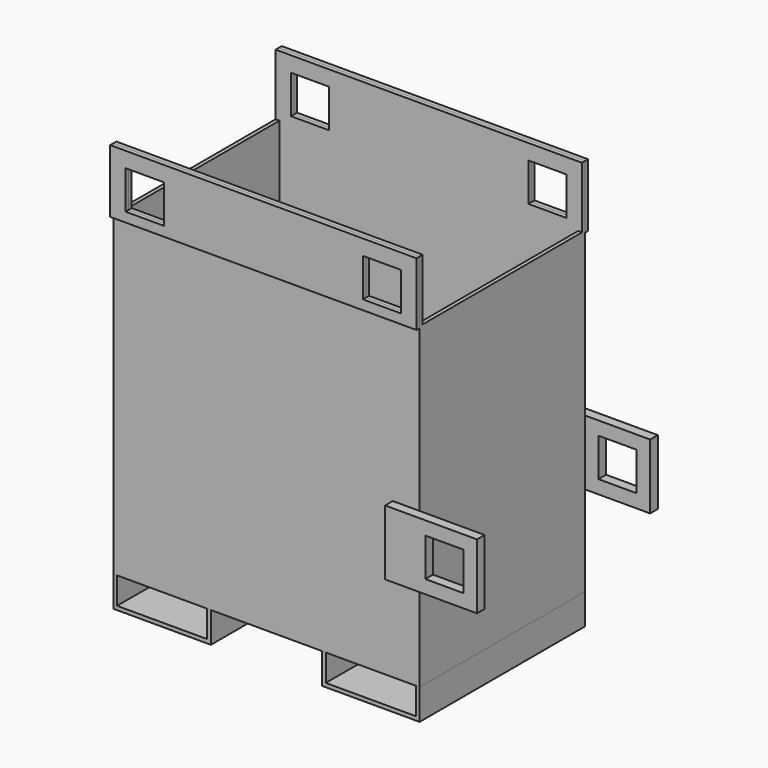
from build123d import *

# Parameters (mm, degrees)
F0_W      = 800
F0_H      = 10
F1_DEPTH  = 540
F2_W      = 800
F2_H      = 540
F2_W_2    = 780
F2_H_2    = 520
F3_DEPTH  = 820
F5_DEPTH  = 160
F6_W      = 100
F6_H      = 100
F7_DEPTH  = 918
F8_W      = 800
F8_H      = 165
F8_W_2    = 100
F8_H_2    = 100
F9_DEPTH  = 10
F10_W     = 800
F10_H     = 165
F10_W_2   = 100
F10_H_2   = 100
F11_DEPTH = 10
F13_DEPTH = 540
F14_W     = 70
F14_H     = 170
F15_DEPTH = 25
F16_W     = 70
F16_H     = 170
F16_W_2   = 170
F16_W_3   = 100
F16_H_2   = 100
F17_DEPTH = 25


with BuildPart() as f1:
    # F0 (on Front) → F1 (new body)
    with BuildSketch(Plane.XZ):
        with Locations((-49.139143, -492.230605)):
            Rectangle(F0_W, F0_H)
    extrude(amount=F1_DEPTH)

    # F2 (on face) → F3 (join)
    with BuildSketch(Plane.XY.offset(-487.230605)):
        with Locations((-49.139143, -270)):
            Rectangle(F2_W, F2_H)
        with Locations((-49.139143, -270)):
            Rectangle(F2_W_2, F2_H_2, mode=Mode.SUBTRACT)
    extrude(amount=F3_DEPTH)

    # F4 (on face) → F5 (join)
    with BuildSketch(Plane.XY.offset(332.769395)):
        Polygon((350.860857, 0), (-449.139143, 0), (-449.139143, -10), (-439.139143, -10), (340.860857, -10), (350.860857, -10), align=None)
        Polygon((-439.139143, -530), (-449.139143, -530), (-449.139143, -540), (350.860857, -540), (350.860857, -530), (340.860857, -530), align=None)
    extrude(amount=F5_DEPTH)

    # F6 (on face) → F7 (cut)
    with BuildSketch(Plane.XZ.offset(540)):
        with Locations((-359.139143, 402.769395)):
            Rectangle(F6_W, F6_H)
        with Locations((260.860857, 402.769395)):
            Rectangle(F6_W, F6_H)
    extrude(amount=-F7_DEPTH, mode=Mode.SUBTRACT)


with BuildPart() as f9:
    # F8 (on face) → F9 (new body)
    with BuildSketch(Plane.XZ.offset(540)):
        with Locations((-49.139143, 410.269395)):
            Rectangle(F8_W, F8_H)
        with Locations((-359.139143, 402.769395)):
            Rectangle(F8_W_2, F8_H_2, mode=Mode.SUBTRACT)
        with Locations((260.860857, 402.769395)):
            Rectangle(F8_W_2, F8_H_2, mode=Mode.SUBTRACT)
    extrude(amount=F9_DEPTH)


with BuildPart() as f11:
    # F10 (on face) → F11 (new body)
    with BuildSketch(Plane(origin=(0, 0, 0), x_dir=(-1, 0, 0), z_dir=(0, 1, 0))):
        with Locations((49.139143, 410.269395)):
            Rectangle(F10_W, F10_H)
        with Locations((-260.860857, 402.769395)):
            Rectangle(F10_W_2, F10_H_2, mode=Mode.SUBTRACT)
        with Locations((359.139143, 402.769395)):
            Rectangle(F10_W_2, F10_H_2, mode=Mode.SUBTRACT)
    extrude(amount=F11_DEPTH)


with BuildPart() as f13:
    # F12 (on face) → F13 (new body, through all)
    with BuildSketch(Plane.XZ.offset(540)):
        Polygon((-439.139143, -497.230605), (-449.139143, -497.230605), (-449.139143, -577.230605), (-194.139143, -577.230605), (-194.139143, -497.230605), (-204.139143, -497.230605), (-204.139143, -567.230605), (-439.139143, -567.230605), align=None)
        Polygon((350.860857, -577.230605), (350.860857, -497.230605), (340.860857, -497.230605), (340.860857, -567.230605), (105.860857, -567.230605), (105.860857, -497.230605), (95.860857, -497.230605), (95.860857, -577.230605), align=None)
    extrude(amount=-F13_DEPTH)


with BuildPart() as f15:
    # F14 (on face) → F15 (new body)
    with BuildSketch(Plane(origin=(0, 0, 0), x_dir=(-1, 0, 0), z_dir=(0, 1, 0))):
        Polygon((-520.860857, -262.230605), (-350.860857, -262.230605), (-350.860857, -92.230605), (-435.860857, -92.230605), (-520.860857, -92.230605), align=None)
        Polygon((-485.860857, -127.230605), (-435.860857, -127.230605), (-385.860857, -127.230605), (-385.860857, -177.230605), (-385.860857, -227.230605), (-485.860857, -227.230605), (-485.860857, -177.230605), align=None, mode=Mode.SUBTRACT)
        with Locations((-315.860857, -177.230605)):
            Rectangle(F14_W, F14_H)
    extrude(amount=F15_DEPTH)


with BuildPart() as f17:
    # F16 (on face) → F17 (new body)
    with BuildSketch(Plane.XZ.offset(540)):
        with Locations((315.860857, -177.230605)):
            Rectangle(F16_W, F16_H)
        with Locations((435.860857, -177.230605)):
            Rectangle(F16_W_2, F16_H)
        with Locations((435.860857, -177.230605)):
            Rectangle(F16_W_3, F16_H_2, mode=Mode.SUBTRACT)
    extrude(amount=F17_DEPTH)


solid = Compound([f1.part, f9.part, f11.part, f13.part, f15.part, f17.part])
